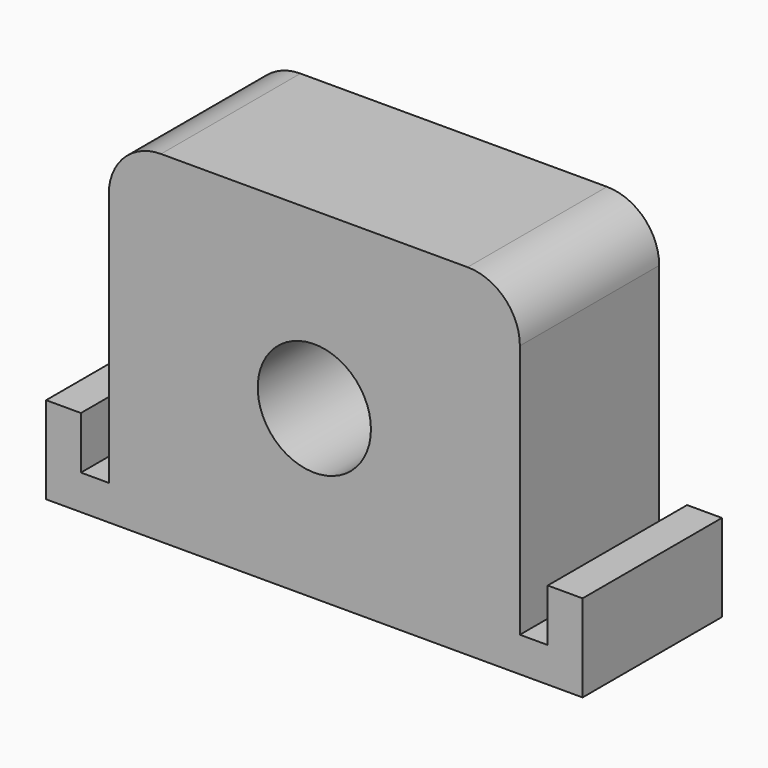
from build123d import *

# Parameters (mm, degrees)
F0_R     = 3.25
F1_DEPTH = 10


with BuildPart() as f1:
    # F0 (on Front) → F1 (new body)
    with BuildSketch(Plane.XZ):
        with BuildLine():
            Line((-13.4, -9.5), (-13.4, -6.540226))
            Line((-13.4, -6.540226), (-15.4, -6.540226))
            Line((-15.4, -6.540226), (-15.4, -11.55))
            Line((-15.4, -11.55), (15.4, -11.55))
            Line((15.4, -11.55), (15.4, -6.540226))
            Line((15.4, -6.540226), (13.4, -6.540226))
            Line((13.4, -6.540226), (13.4, -9.5))
            Line((13.4, -9.5), (13.4, -9.55))
            Line((13.4, -9.55), (11.8, -9.55))
            Line((11.8, -9.55), (11.8, -9.5))
            Line((11.8, -9.5), (11.8, 5.05))
            ThreePointArc((11.8, 5.05), (10.92132, 7.17132), (8.8, 8.05))
            Line((8.8, 8.05), (-8.8, 8.05))
            ThreePointArc((-8.8, 8.05), (-10.92132, 7.17132), (-11.8, 5.05))
            Line((-11.8, 5.05), (-11.8, -9.5))
            Line((-11.8, -9.5), (-11.8, -9.55))
            Line((-11.8, -9.55), (-13.4, -9.55))
            Line((-13.4, -9.55), (-13.4, -9.5))
        make_face()
        with Locations((0, -1.95)):
            Circle(F0_R, mode=Mode.SUBTRACT)
    extrude(amount=F1_DEPTH)


solid = f1.part
